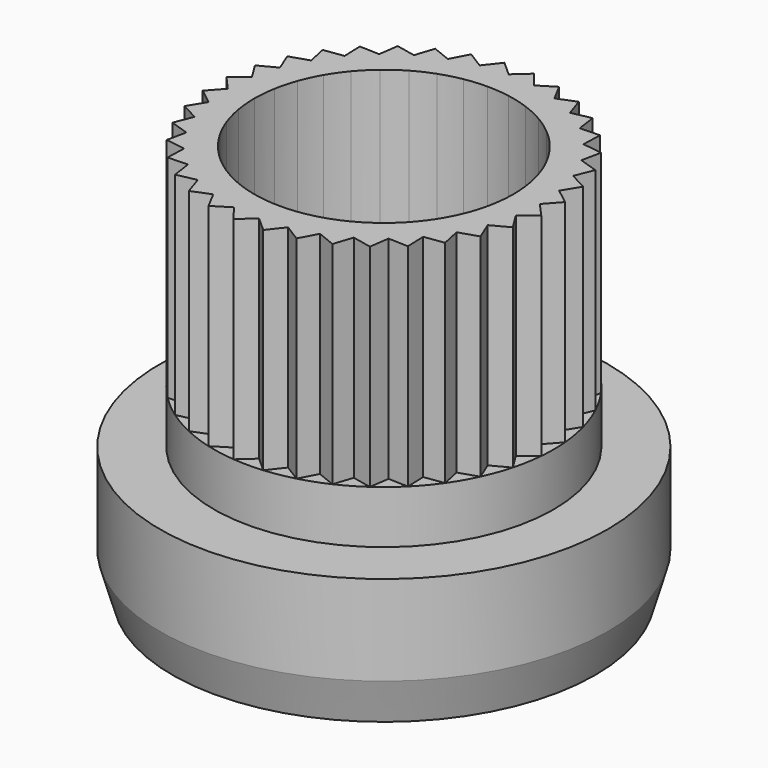
from build123d import *

# Parameters (mm, degrees)
PAD_DEPTH          = 12
POLARPATTERN_COUNT = 36
SKETCH001_R        = 9.64
SKETCH001_R_2      = 7.35
PAD001_DEPTH       = 3
SKETCH002_R        = 12.7
SKETCH002_R_2      = 7.35
PAD002_DEPTH       = 5
SKETCH003_R        = 12.7
PAD003_DEPTH       = 2.5
CHAMFER_SIZE2      = 0.7
CHAMFER_SIZE       = 2.4


with BuildPart() as part:
    # Sketch → Pad (new body)
    with BuildSketch(Plane.XY):
        with BuildLine():
            Line((0, 8.85), (0.8401813601, 9.6033168896))
            Line((1.5367863724, 8.7155486142), (0.8401813601, 9.6033168896))
            Line((1.2763141059, 7.2383369846), (1.5367863724, 8.7155486142))
            ThreePointArc((1.2763141059, 7.2383369846), (0.6405947092, 7.322031031), (0, 7.35))
            Line((0, 7.35), (0, 8.85))
        make_face()
    pad = extrude(amount=PAD_DEPTH)

    # PolarPattern: Pad ×36 about axis
    polarpattern_axis = Axis((0, 0, 0), (0, 0, 1))
    for i in range(1, POLARPATTERN_COUNT):
        add(pad.rotate(polarpattern_axis, i * 360 / POLARPATTERN_COUNT))

    # Sketch001 (on DatumPlane) → Pad001 (join)
    with BuildSketch(Plane.XY):
        Circle(SKETCH001_R)
        Circle(SKETCH001_R_2, mode=Mode.SUBTRACT)
    extrude(amount=-PAD001_DEPTH)

    # Sketch002 (on Face51 of Pad001) → Pad002 (join)
    with BuildSketch(Plane(origin=(0, 0, -3), x_dir=(1, 0, 0), z_dir=(0, 0, -1))):
        Circle(SKETCH002_R)
        Circle(SKETCH002_R_2, mode=Mode.SUBTRACT)
    extrude(amount=PAD002_DEPTH)

    # Sketch003 (on DatumPlane) → Pad003 (join)
    with BuildSketch(Plane(origin=(0, 0, -8), x_dir=(1, 0, 0), z_dir=(0, 0, -1))):
        Circle(SKETCH003_R)
        with BuildLine():
            ThreePointArc((-9.7272135955, 0.2236067977), (-9.5036067977, -0.4472135955), (-8.8327864045, -0.2236067977))
            Line((-8.8327864045, -0.2236067977), (-7.2200847391, 3.001796533))
            Line((-2.4152236623, -4.2754949357), (-7.2200847391, 3.001796533))
            ThreePointArc((-2.4152236623, -4.2754949357), (-1.9680100668, -4.4991017335), (-1.5507541017, -4.2236067977))
            Line((-1.5507541017, -4.2236067977), (2.061789241, 3.0014798877))
            Line((2.061789241, 3.0014798877), (6.8626465602, -4.2753472467))
            ThreePointArc((6.8626465602, -4.2753472467), (7.309869311, -4.4991070269), (7.7272135955, -4.2236067977))
            Line((7.7272135955, -4.2236067977), (9.7272135955, -0.2236067977))
            ThreePointArc((9.7272135955, -0.2236067977), (9.5036067977, 0.4472135955), (8.8327864045, 0.2236067977))
            Line((7.2202430618, -3.0014798877), (8.8327864045, 0.2236067977))
            Line((2.4193857426, 4.2753472467), (7.2202430618, -3.0014798877))
            ThreePointArc((2.4193857426, 4.2753472467), (1.9721629918, 4.4991070269), (1.5548187073, 4.2236067977))
            Line((-2.0578829581, -3.001796533), (1.5548187073, 4.2236067977))
            Line((-6.8627440349, 4.2754949357), (-2.0578829581, -3.001796533))
            ThreePointArc((-6.8627440349, 4.2754949357), (-7.3099576304, 4.4991017335), (-7.7272135955, 4.2236067977))
            Line((-9.7272135955, 0.2236067977), (-7.7272135955, 4.2236067977))
        make_face(mode=Mode.SUBTRACT)
    extrude(amount=PAD003_DEPTH)

    # Chamfer
    chamfer_edges = [part.edges().sort_by_distance(p)[0] for p in [
        (-12.7, 0, -10.5),
    ]]
    chamfer_side = part.faces().sort_by_distance((-12.7, 0, -9.25))[0]
    chamfer(chamfer_edges, length=CHAMFER_SIZE, length2=CHAMFER_SIZE2, reference=chamfer_side)


solid = part.part
